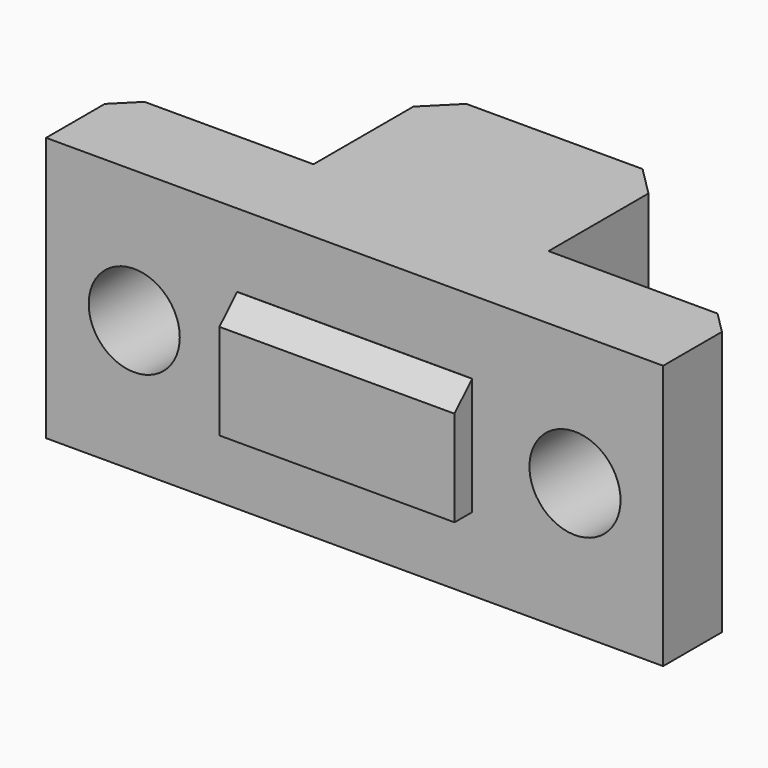
from build123d import *

# Parameters (mm, degrees)
CUBE003_W                   = 50
CUBE003_H                   = 2
CUBE003_DEPTH               = 5
CYLINDER_R                  = 4.1
CYLINDER_DEPTH              = 13.8
CUBE004_W                   = 10
CUBE004_H                   = 10
CUBE004_DEPTH               = 20
CUBE004_PLACEMENT_ANGLE     = 45
CUBE005_W                   = 10
CUBE005_H                   = 10
CUBE005_DEPTH               = 20
CUBE005_PLACEMENT_ANGLE     = 45
CUBE006_W                   = 10
CUBE006_H                   = 10
CUBE006_DEPTH               = 20
CUBE006_PLACEMENT_ANGLE     = 45
CUBE007_W                   = 10
CUBE007_H                   = 10
CUBE007_DEPTH               = 20
CUBE007_PLACEMENT_ANGLE     = 45
CYLINDER001_R               = 3.1
CYLINDER001_DEPTH           = 10
CYLINDER002_R               = 3.1
CYLINDER002_DEPTH           = 10
CUBE008_W                   = 30
CUBE008_H                   = 2.1
CUBE008_DEPTH               = 3.5
CUBE002_W                   = 50
CUBE002_H                   = 2
CUBE002_DEPTH               = 10
CUBE001_W                   = 16
CUBE001_H                   = 17.5
CUBE001_DEPTH               = 18
CUBE_W                      = 42
CUBE_H                      = 7
CUBE_DEPTH                  = 18
DIFFERENCE_PLACEMENT_ANGLE  = 180
BASEFEATURE_PLACEMENT_ANGLE = 180
SKETCH_W                    = 13
SKETCH_H                    = 8
POCKET_DEPTH                = 0.5
SKETCH001_W                 = 16
SKETCH001_H                 = 8
PAD_DEPTH                   = 1
CHAMFER_SIZE                = 1.49


with BuildPart() as cube003:
    # cube003 → cube003 (new body)
    with BuildSketch(Plane(origin=(42.1, 0.5, 0), x_dir=(-1, 0, 0), z_dir=(0, 0, 1))):
        with Locations((25, 1)):
            Rectangle(CUBE003_W, CUBE003_H)
    extrude(amount=CUBE003_DEPTH)


with BuildPart() as cylinder:
    # cylinder → cylinder (new body)
    with BuildSketch(Plane(origin=(21, 15.9, -0.1), x_dir=(1, 0, 0), z_dir=(0, 0, 1))):
        Circle(CYLINDER_R)
    extrude(amount=CYLINDER_DEPTH)


with BuildPart() as cube004:
    # cube004 → cube004 (new body)
    with BuildSketch(Plane.XY):
        with Locations((5, 5)):
            Rectangle(CUBE004_W, CUBE004_H)
    extrude(amount=CUBE004_DEPTH)


with BuildPart() as cube004_1:
    # cube004 placement: moved
    add(cube004.part.moved(Location((13, 15.5, -0.1))).rotate(Axis((13, 15.5, -0.1), (0, 0, 1)), CUBE004_PLACEMENT_ANGLE))


with BuildPart() as cube005:
    # cube005 → cube005 (new body)
    with BuildSketch(Plane.XY):
        with Locations((5, 5)):
            Rectangle(CUBE005_W, CUBE005_H)
    extrude(amount=CUBE005_DEPTH)


with BuildPart() as cube005_1:
    # cube005 placement: moved
    add(cube005.part.moved(Location((29, 15.5, -0.1))).rotate(Axis((29, 15.5, -0.1), (0, 0, 1)), CUBE005_PLACEMENT_ANGLE))


with BuildPart() as cube006:
    # cube006 → cube006 (new body)
    with BuildSketch(Plane.XY):
        with Locations((5, 5)):
            Rectangle(CUBE006_W, CUBE006_H)
    extrude(amount=CUBE006_DEPTH)


with BuildPart() as cube006_1:
    # cube006 placement: moved
    add(cube006.part.moved(Location((0, 5.5, -0.1))).rotate(Axis((0, 5.5, -0.1), (0, 0, 1)), CUBE006_PLACEMENT_ANGLE))


with BuildPart() as cube007:
    # cube007 → cube007 (new body)
    with BuildSketch(Plane.XY):
        with Locations((5, 5)):
            Rectangle(CUBE007_W, CUBE007_H)
    extrude(amount=CUBE007_DEPTH)


with BuildPart() as cube007_1:
    # cube007 placement: moved
    add(cube007.part.moved(Location((42, 5.5, -0.1))).rotate(Axis((42, 5.5, -0.1), (0, 0, 1)), CUBE007_PLACEMENT_ANGLE))


with BuildPart() as cylinder001:
    # cylinder001 → cylinder001 (new body)
    with BuildSketch(Plane(origin=(6, -0.1, 9), x_dir=(1, 0, 0), z_dir=(0, 1, 0))):
        Circle(CYLINDER001_R)
    extrude(amount=CYLINDER001_DEPTH)


with BuildPart() as cylinder002:
    # cylinder002 → cylinder002 (new body)
    with BuildSketch(Plane(origin=(36, -0.1, 9), x_dir=(1, 0, 0), z_dir=(0, 1, 0))):
        Circle(CYLINDER002_R)
    extrude(amount=CYLINDER002_DEPTH)


with BuildPart() as cube008:
    # cube008 → cube008 (new body)
    with BuildSketch(Plane(origin=(5, 8.3, 7), x_dir=(1, 0, 0), z_dir=(0, 0, 1))):
        with Locations((15, 1.05)):
            Rectangle(CUBE008_W, CUBE008_H)
    extrude(amount=CUBE008_DEPTH)


with BuildPart() as group001:
    # cube002 → cube002 (new body)
    with BuildSketch(Plane(origin=(42.1, 0.5, 13), x_dir=(-1, 0, 0), z_dir=(0, 0, 1))):
        with Locations((25, 1)):
            Rectangle(CUBE002_W, CUBE002_H)
    extrude(amount=CUBE002_DEPTH)

    # Group001: union cube003, cylinder, cube004, cube005, cube006, cube007, cylinder001, cylinder002, cube008
    add(cube003.part)
    add(cylinder.part)
    add(cube004_1.part)
    add(cube005_1.part)
    add(cube006_1.part)
    add(cube007_1.part)
    add(cylinder001.part)
    add(cylinder002.part)
    add(cube008.part)


with BuildPart() as cube001:
    # cube001 → cube001 (new body)
    with BuildSketch(Plane(origin=(13, 0, 0), x_dir=(1, 0, 0), z_dir=(0, 0, 1))):
        with Locations((8, 8.75)):
            Rectangle(CUBE001_W, CUBE001_H)
    extrude(amount=CUBE001_DEPTH)


with BuildPart() as body:
    # cube → cube (new body)
    with BuildSketch(Plane.XY):
        with Locations((21, 3.5)):
            Rectangle(CUBE_W, CUBE_H)
    extrude(amount=CUBE_DEPTH)

    # Group: union cube001
    add(cube001.part)

    # difference: cut Group001
    add(group001.part, mode=Mode.SUBTRACT)


with BuildPart() as body_1:
    # difference placement: moved
    add(body.part.moved(Location((0, 0, 18))).rotate(Axis((0, 0, 18), (0, 1, 0)), DIFFERENCE_PLACEMENT_ANGLE))


with BuildPart() as body_2:
    # BaseFeature placement: moved
    add(body_1.part.moved(Location((0, 0, 18))).rotate(Axis((0, 0, 18), (0, -1, 0)), BASEFEATURE_PLACEMENT_ANGLE))

    # Sketch (on Face13 of BaseFeature) → Pocket (cut)
    with BuildSketch(Plane.XZ):
        with Locations((6.5, 9)):
            Rectangle(SKETCH_W, SKETCH_H)
        with Locations((35.5, 9)):
            Rectangle(SKETCH_W, SKETCH_H)
    extrude(amount=-POCKET_DEPTH, mode=Mode.SUBTRACT)

    # Sketch001 (on Face19 of Pocket) → Pad (join)
    with BuildSketch(Plane.XZ):
        with Locations((21, 9)):
            Rectangle(SKETCH001_W, SKETCH001_H)
    extrude(amount=PAD_DEPTH)

    # Chamfer
    chamfer_edges = [body_2.edges().sort_by_distance(p)[0] for p in [
        (21, -1, 13),
    ]]
    chamfer(chamfer_edges, length=CHAMFER_SIZE)


solid = body_2.part
